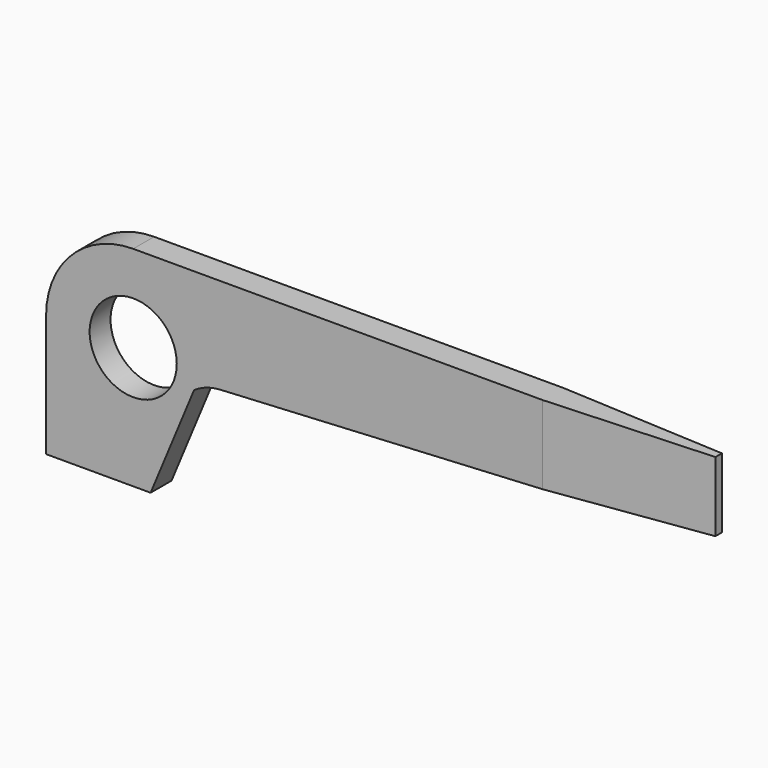
from build123d import *

# Parameters (mm, degrees)
F1_DEPTH = 2.38125
F4_R     = 3.96875
F5_DEPTH = 25.4
F7_DEPTH = 25.4


with BuildPart() as f1:
    # F0 (on Front) → F1 (new body)
    with BuildSketch(Plane.XZ):
        with BuildLine():
            Line((60.325, 19.05), (7.9375, 19.05))
            ThreePointArc((7.9375, 19.05), (2.32484, 16.72516), (0, 11.1125))
            Line((0, 11.1125), (0, 0))
            Line((0, 0), (9.525, 0))
            Line((9.525, 0), (13.483182, 9.525))
            ThreePointArc((13.483182, 9.525), (14.624025, 10.091332), (15.875, 10.330743))
            Line((15.875, 10.330743), (60.325, 12.7))
            Line((60.325, 12.7), (60.325, 19.05))
        make_face()
    extrude(amount=F1_DEPTH)

    # F4 (on face) → F5 (cut)
    with BuildSketch(Plane.XZ.offset(2.38125)):
        with Locations((7.9375, 11.1125)):
            Circle(F4_R)
    extrude(amount=-F5_DEPTH, mode=Mode.SUBTRACT)

    # F6 (on face) → F7 (cut)
    with BuildSketch(Plane.XY.offset(19.05)):
        Polygon((60.325, 0), (45.2374, 0), (60.325, -0.819355), align=None)
        Polygon((60.325, -2.38125), (60.325, -1.561895), (45.2374, -2.38125), align=None)
    extrude(amount=-F7_DEPTH, mode=Mode.SUBTRACT)


solid = f1.part
